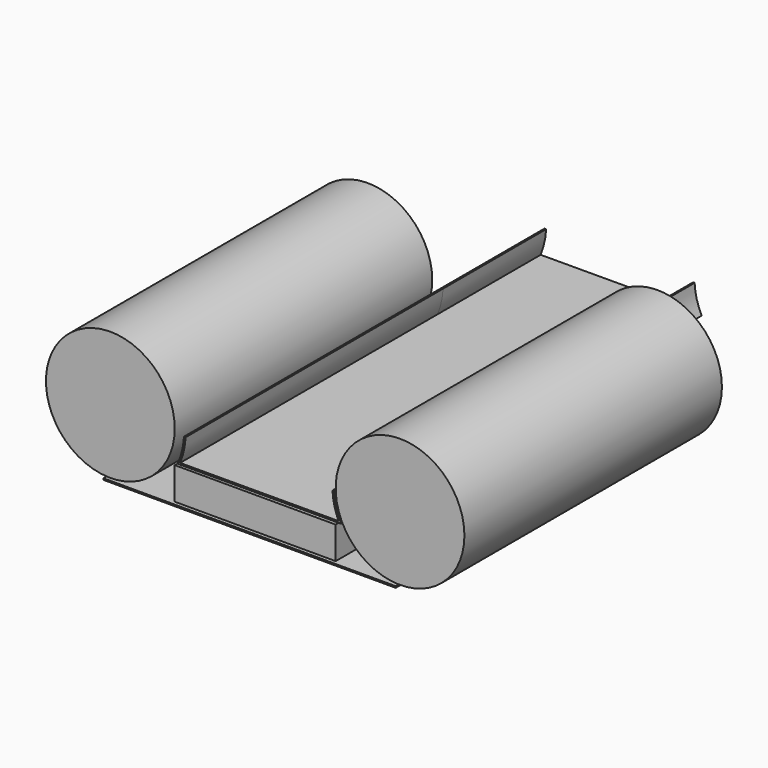
from build123d import *

# Parameters (mm, degrees)
F0_R     = 200
F0_W     = 500
F0_H     = 100
F0_W_2   = 908.385545
F0_H_2   = 4.617781
F1_DEPTH = 1000
F2_DEPTH = 400


with BuildPart() as f1:
    # F0 (on Front) → F1 (new body)
    with BuildSketch(Plane.XZ):
        with Locations((-531.073075, -125.529968)):
            Circle(F0_R)
        with Locations((-81.073075, -275.529968)):
            Rectangle(F0_W, F0_H)
        with Locations((368.926925, -125.529968)):
            Circle(F0_R)
        with Locations((-98.650441, -335.634097)):
            Rectangle(F0_W_2, F0_H_2)
        with BuildLine():
            ThreePointArc((-302.238144, -138.138266), (-308.316882, -179.419426), (-321.779571, -218.914251))
            Line((-321.779571, -218.914251), (185.88593, -217.839199))
            ThreePointArc((185.88593, -217.839199), (170.651728, -177.606319), (164.149493, -135.080015))
            Line((164.149493, -135.080015), (159.154922, -135.312943))
            ThreePointArc((159.154922, -135.312943), (164.833332, -174.98505), (177.944823, -212.856005))
            Line((177.944823, -212.856005), (-314.203826, -213.898197))
            ThreePointArc((-314.203826, -213.898197), (-302.585988, -176.860913), (-297.245716, -138.413337))
            Line((-297.245716, -138.413337), (-302.238144, -138.138266))
        make_face()
    extrude(amount=F1_DEPTH)

    # F1_face (on face) → F2 (join)
    with BuildSketch(Plane(origin=(-67.288015, 0, -206.266635), x_dir=(1, 0, 0), z_dir=(0, 1, 0))):
        with BuildLine():
            ThreePointArc((-229.957701, -67.853298), (-235.297972, -29.405722), (-246.915811, 7.631562))
            Line((-246.915811, 7.631562), (245.232838, 6.58937))
            ThreePointArc((245.232838, 6.58937), (232.121347, -31.281585), (226.442937, -70.953692))
            Line((226.442937, -70.953692), (231.437508, -71.18662))
            ThreePointArc((231.437508, -71.18662), (237.939743, -28.660316), (253.173945, 11.572564))
            Line((253.173945, 11.572564), (-254.491556, 12.647616))
            ThreePointArc((-254.491556, 12.647616), (-241.028867, -26.847209), (-234.950129, -68.128369))
            Line((-234.950129, -68.128369), (-229.957701, -67.853298))
        make_face()
    extrude(amount=F2_DEPTH)


solid = f1.part
